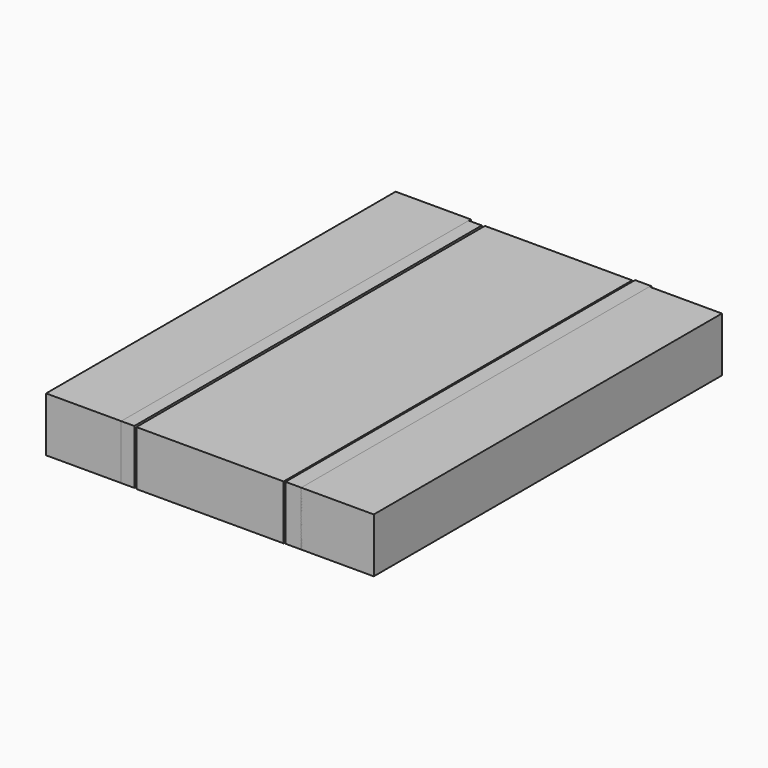
from build123d import *

# Parameters (mm, degrees)
F0_W     = 51.446718
F0_H     = 152.196549
F1_DEPTH = 19.05
F2_W     = 4.579483
F2_H     = 151.733495
F2_W_2   = 5.800676
F2_H_2   = 152.649395
F3_DEPTH = 19.05
F4_W     = 26.255693
F4_H     = 152.649395
F4_W_2   = 25.339797
F4_H_2   = 152.03879
F5_DEPTH = 19.05


with BuildPart() as f1:
    # F0 (on Top) → F1 (new body)
    with BuildSketch(Plane.XY):
        with Locations((-1.837384, -0.351112)):
            Rectangle(F0_W, F0_H)
    extrude(amount=F1_DEPTH)


with BuildPart() as f3:
    # F2 (on Top) → F3 (new body)
    with BuildSketch(Plane.XY):
        with Locations((-30.682527, -0.429991)):
            Rectangle(F2_W, F2_H)
        with Locations((27.324239, 0.027958)):
            Rectangle(F2_W_2, F2_H_2)
    extrude(amount=F3_DEPTH)


with BuildPart() as f5:
    # F4 (on Top) → F5 (new body)
    with BuildSketch(Plane.XY):
        with Locations((-46.100116, 0.027958)):
            Rectangle(F4_W, F4_H)
        with Locations((42.589176, -0.277344)):
            Rectangle(F4_W_2, F4_H_2)
    extrude(amount=F5_DEPTH)


solid = Compound([f1.part, f3.part, f5.part])
